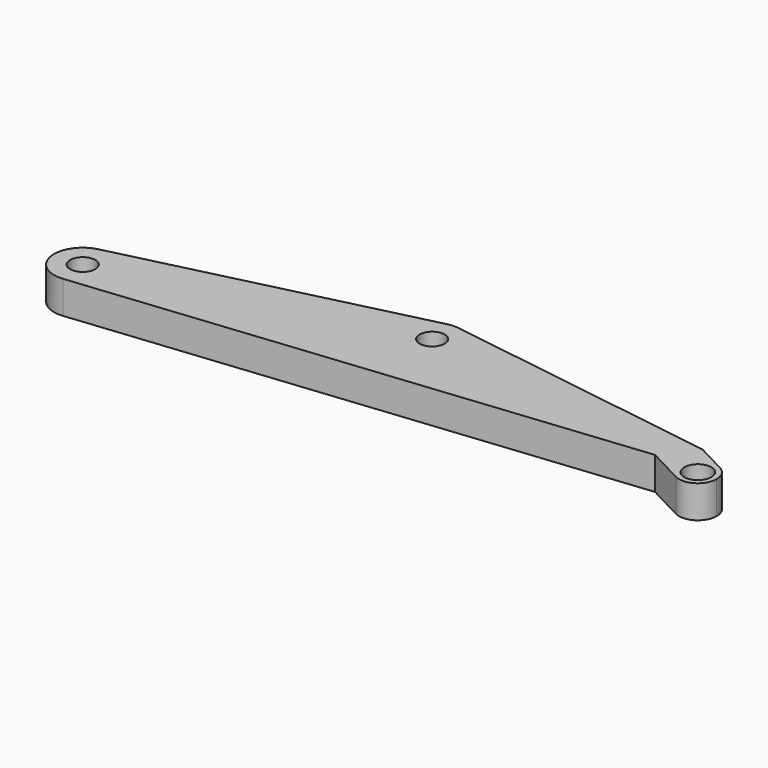
from build123d import *

# Parameters (mm, degrees)
F0_R     = 1
F0_R_2   = 1.075
F1_DEPTH = 1.3


with BuildPart() as f1:
    # F0 (on Top) → F1 (new body)
    with BuildSketch(Plane.XY):
        with BuildLine():
            ThreePointArc((-1.724839, 5.20118), (-2.567642, 1.308568), (1.014279, 3.05))
            ThreePointArc((1.014279, 3.05), (0.477178, 4.49572), (-0.873565, 5.240085))
            ThreePointArc((-0.873565, 5.240085), (-1.301091, 5.26197), (-1.724839, 5.20118))
        make_face()
        with Locations((-1.2, 3.05)):
            Circle(F0_R, mode=Mode.SUBTRACT)
        with BuildLine():
            ThreePointArc((-0.873565, 5.240085), (0.477178, 4.49572), (1.014279, 3.05))
            ThreePointArc((1.014279, 3.05), (-2.567642, 1.308568), (-1.724839, 5.20118))
            Line((-1.724839, 5.20118), (-24.990567, -0.475129))
            ThreePointArc((-24.990567, -0.475129), (-23.041374, -0.897155), (-22.169366, -2.690773))
            ThreePointArc((-22.169366, -2.690773), (-22.75681, -4.218646), (-24.216514, -4.959423))
            Line((-24.216514, -4.959423), (19.374011, -0.473151))
            Line((19.374011, -0.473151), (22.209785, -1.955847))
            ThreePointArc((22.209785, -1.955847), (21.57553, 0.068436), (23.599812, 0.702691))
            Line((23.599812, 0.702691), (21.219947, 1.947013))
            Line((21.219947, 1.947013), (-0.873565, 5.240085))
        make_face()
        with BuildLine():
            ThreePointArc((-22.169366, -2.690773), (-23.041374, -0.897155), (-24.990567, -0.475129))
            ThreePointArc((-24.990567, -0.475129), (-26.697398, -3.078706), (-24.216514, -4.959423))
            ThreePointArc((-24.216514, -4.959423), (-22.75681, -4.218646), (-22.169366, -2.690773))
        make_face()
        with Locations((-24.45, -2.690773)):
            Circle(F0_R, mode=Mode.SUBTRACT)
        with BuildLine():
            ThreePointArc((24.404799, -0.626578), (24.187865, 0.150429), (23.599812, 0.702691))
            ThreePointArc((23.599812, 0.702691), (21.57553, 0.068436), (22.209785, -1.955847))
            ThreePointArc((22.209785, -1.955847), (23.681806, -1.909645), (24.404799, -0.626578))
        make_face()
        with Locations((22.904799, -0.626578)):
            Circle(F0_R_2, mode=Mode.SUBTRACT)
    extrude(amount=F1_DEPTH)

    # F2: F1 across plane


with BuildPart() as f1_1:
    add(f1.part)
    add(f1.part.mirror(Plane.XY))


solid = f1_1.part
